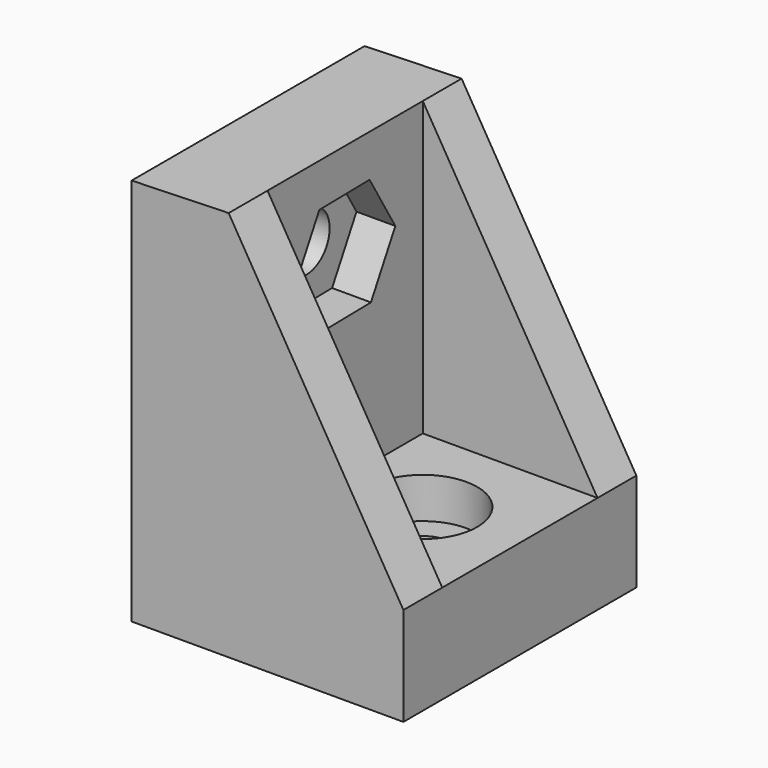
from build123d import *

# Parameters (mm, degrees)
F1_DEPTH       = 15
F2_DEPTH       = 2.5
F5_DEPTH       = 2.5
F7_D           = 3
F7_CBORE_D     = 5.6
F7_CBORE_DEPTH = 2.1
F9_D           = 3
F10_DEPTH      = 2


with BuildPart() as f1:
    # F0 (on Front) → F1 (new body)
    with BuildSketch(Plane.XZ):
        Polygon((4.9977494935, 20.15), (0, 20), (0, 0), (14, 0), (14, 5.075), (4.9977494935, 5.075), align=None)
    extrude(amount=F1_DEPTH)

    # F0 (on Front) → F2 (join)
    with BuildSketch(Plane.XZ):
        Polygon((4.9977494935, 20.15), (0, 20), (0, 0), (14, 0), (14, 5.075), (4.9977494935, 5.075), align=None)
        Polygon((14, 5.075), (4.9977494935, 20.15), (4.9977494935, 5.075), align=None)
    extrude(amount=F2_DEPTH)

    # F4 (on offset) → F5 (join)
    with BuildSketch(Plane.XZ.offset(15)):
        Polygon((14, 5.075), (4.9977494935, 20.15), (4.9977494935, 5.075), align=None)
    extrude(amount=-F5_DEPTH)

    # F7 (through all)
    with Locations(Plane.XY.offset(5.075)):
        with Locations((9, -7.5)):
            CounterBoreHole(F7_D / 2, F7_CBORE_D / 2, F7_CBORE_DEPTH)

    # F9 (through all)
    with Locations(Plane.YZ.offset(4.9977494935)):
        with Locations((-7.5, 15.15)):
            Hole(F9_D / 2)

    # F8 (on face) → F10 (cut)
    with BuildSketch(Plane.YZ.offset(4.9977494935)):
        Polygon((-9.1603395536, 17.9242757433), (-10.7327630476, 15.0992416393), (-9.072423494, 12.324965896), (-5.8396604464, 12.3757242567), (-4.2672369524, 15.2007583607), (-5.927576506, 17.975034104), align=None)
    extrude(amount=-F10_DEPTH, mode=Mode.SUBTRACT)


solid = f1.part
